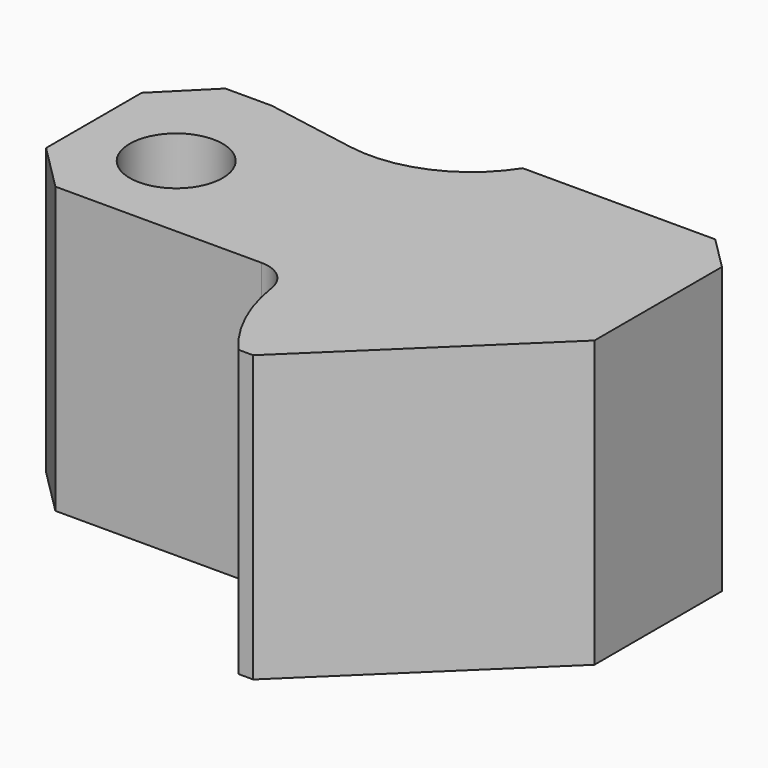
from build123d import *

# Parameters (mm, degrees)
F0_R     = 7
F1_DEPTH = 43


with BuildPart() as f1:
    # F0 (on Top) → F1 (new body)
    with BuildSketch(Plane.XY):
        with BuildLine():
            Line((0, 18), (0, 0))
            Line((0, 0), (7, -7))
            Line((7, -7), (38.048228, -7))
            ThreePointArc((38.048228, -7), (41.313464, -8.213414), (42.993867, -11.264706))
            ThreePointArc((42.993867, -11.264706), (45.330697, -19.115672), (49.769669, -26))
            Line((49.769669, -26), (52, -26))
            Line((52, -26), (81, 2))
            Line((81, 2), (81, 26))
            Line((81, 26), (76, 31))
            Line((76, 31), (47, 31))
            ThreePointArc((47, 31), (38.635682, 23.880152), (27.728725, 22.579255))
            Line((27.728725, 22.579255), (14, 25))
            Line((14, 25), (7, 25))
            Line((7, 25), (0, 18))
        make_face()
        with Locations((14, 7)):
            Circle(F0_R, mode=Mode.SUBTRACT)
    extrude(amount=F1_DEPTH)


solid = f1.part
